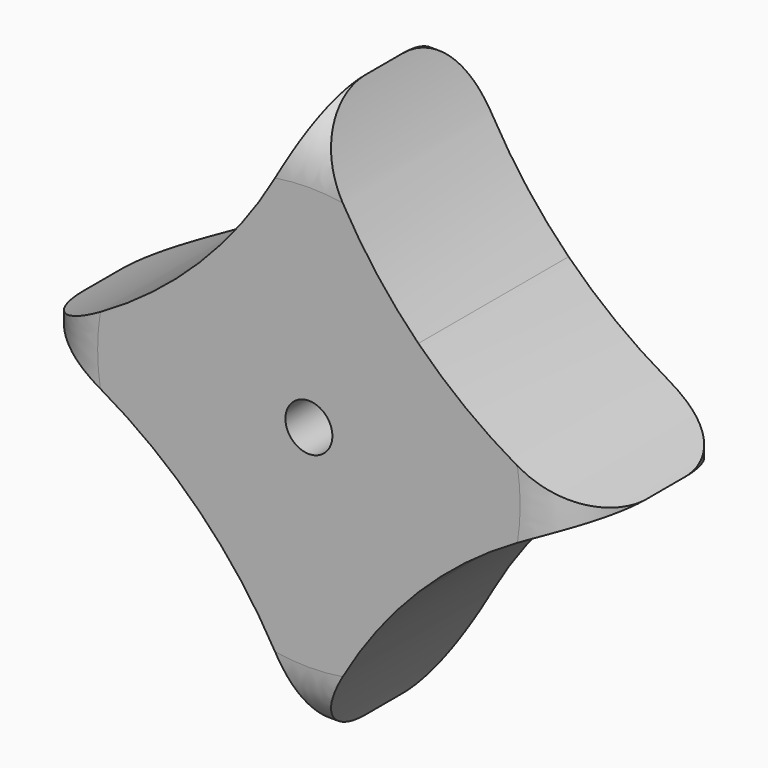
from build123d import *

# Parameters (mm, degrees)
F0_R     = 76.2
F1_DEPTH = 50.8
F3_R     = 19.05
F4_DEPTH = 50.801
F5_R     = 6.35
F6_DEPTH = 50.8010001


with BuildPart() as f1:
    # F0 (on Front) → F1 (new body)
    with BuildSketch(Plane.XZ):
        Circle(F0_R)
    extrude(amount=F1_DEPTH)

    # F3
    f3_edges = [f1.edges().sort_by_distance(p)[0] for p in [
        (76.2, -25.4, 0),
        (-76.2, 0, 0),
        (-76.2, -50.8, 0),
    ]]
    fillet(f3_edges, radius=F3_R)

    # F2 (on face) → F4 (cut, through all)
    with BuildSketch(Plane.XZ.offset(50.8)):
        with BuildLine():
            ThreePointArc((-29.6171166047, 29.6171166047), (-12.2470246704, 51.2799506522), (0, 76.2))
            Line((0, 76.2), (-38.1, 38.1))
            Line((-38.1, 38.1), (-29.6171166047, 29.6171166047))
        make_face()
        with BuildLine():
            Line((-29.6171166047, 29.6171166047), (-38.1, 38.1))
            Line((-38.1, 38.1), (-76.2, 0))
            ThreePointArc((-76.2, 0), (-51.2799506522, 12.2470246704), (-29.6171166047, 29.6171166047))
        make_face()
        with BuildLine():
            Line((0, -76.2), (38.1, -38.1))
            Line((38.1, -38.1), (29.6171166047, -29.6171166047))
            ThreePointArc((29.6171166047, -29.6171166047), (12.2470246704, -51.2799506522), (0, -76.2))
        make_face()
        with BuildLine():
            Line((38.1, -38.1), (76.2, 0))
            ThreePointArc((76.2, 0), (51.2799506522, -12.2470246704), (29.6171166047, -29.6171166047))
            Line((29.6171166047, -29.6171166047), (38.1, -38.1))
        make_face()
        with BuildLine():
            ThreePointArc((29.6171166047, 29.6171166047), (51.2799506522, 12.2470246704), (76.2, 0))
            Line((76.2, 0), (38.1, 38.1))
            Line((38.1, 38.1), (29.6171166047, 29.6171166047))
        make_face()
        with BuildLine():
            Line((38.1, 38.1), (0, 76.2))
            ThreePointArc((0, 76.2), (12.2470246704, 51.2799506522), (29.6171166047, 29.6171166047))
            Line((29.6171166047, 29.6171166047), (38.1, 38.1))
        make_face()
        with BuildLine():
            ThreePointArc((-29.6171166047, -29.6171166047), (-51.2799506522, -12.2470246704), (-76.2, 0))
            Line((-76.2, 0), (-38.1, -38.1))
            Line((-38.1, -38.1), (-29.6171166047, -29.6171166047))
        make_face()
        with BuildLine():
            Line((-38.1, -38.1), (0, -76.2))
            ThreePointArc((0, -76.2), (-12.2470246704, -51.2799506522), (-29.6171166047, -29.6171166047))
            Line((-29.6171166047, -29.6171166047), (-38.1, -38.1))
        make_face()
        with BuildLine():
            Line((53.8815367264, 53.8815367264), (76.2, 76.2))
            Line((76.2, 76.2), (0, 76.2))
            ThreePointArc((0, 76.2), (29.1604775462, 70.3996203774), (53.8815367264, 53.8815367264))
        make_face()
        with BuildLine():
            ThreePointArc((-53.8815367264, 53.8815367264), (-29.1604775462, 70.3996203774), (0, 76.2))
            Line((0, 76.2), (-76.2, 76.2))
            Line((-76.2, 76.2), (-53.8815367264, 53.8815367264))
        make_face()
        with BuildLine():
            Line((0, -76.2), (76.2, -76.2))
            Line((76.2, -76.2), (53.8815367264, -53.8815367264))
            ThreePointArc((53.8815367264, -53.8815367264), (29.1604775462, -70.3996203774), (0, -76.2))
        make_face()
        with BuildLine():
            Line((-76.2, -76.2), (0, -76.2))
            ThreePointArc((0, -76.2), (-29.1604775462, -70.3996203774), (-53.8815367264, -53.8815367264))
            Line((-53.8815367264, -53.8815367264), (-76.2, -76.2))
        make_face()
        with BuildLine():
            Line((76.2, 0), (76.2, 76.2))
            Line((76.2, 76.2), (53.8815367264, 53.8815367264))
            ThreePointArc((53.8815367264, 53.8815367264), (70.3996203774, 29.1604775462), (76.2, 0))
        make_face()
        with BuildLine():
            Line((76.2, -76.2), (76.2, 0))
            ThreePointArc((76.2, 0), (70.3996203774, -29.1604775462), (53.8815367264, -53.8815367264))
            Line((53.8815367264, -53.8815367264), (76.2, -76.2))
        make_face()
        with BuildLine():
            Line((-53.8815367264, 53.8815367264), (-76.2, 76.2))
            Line((-76.2, 76.2), (-76.2, 0))
            ThreePointArc((-76.2, 0), (-70.3996203774, 29.1604775462), (-53.8815367264, 53.8815367264))
        make_face()
        with BuildLine():
            ThreePointArc((-53.8815367264, -53.8815367264), (-70.3996203774, -29.1604775462), (-76.2, 0))
            Line((-76.2, 0), (-76.2, -76.2))
            Line((-76.2, -76.2), (-53.8815367264, -53.8815367264))
        make_face()
        with BuildLine():
            Line((-38.1, 38.1), (0, 76.2))
            ThreePointArc((0, 76.2), (-29.1604775462, 70.3996203774), (-53.8815367264, 53.8815367264))
            Line((-53.8815367264, 53.8815367264), (-38.1, 38.1))
        make_face()
        with BuildLine():
            Line((-76.2, 0), (-38.1, 38.1))
            Line((-38.1, 38.1), (-53.8815367264, 53.8815367264))
            ThreePointArc((-53.8815367264, 53.8815367264), (-70.3996203774, 29.1604775462), (-76.2, 0))
        make_face()
        with BuildLine():
            Line((53.8815367264, -53.8815367264), (38.1, -38.1))
            Line((38.1, -38.1), (0, -76.2))
            ThreePointArc((0, -76.2), (29.1604775462, -70.3996203774), (53.8815367264, -53.8815367264))
        make_face()
        with BuildLine():
            ThreePointArc((53.8815367264, -53.8815367264), (70.3996203774, -29.1604775462), (76.2, 0))
            Line((76.2, 0), (38.1, -38.1))
            Line((38.1, -38.1), (53.8815367264, -53.8815367264))
        make_face()
        with BuildLine():
            Line((38.1, 38.1), (76.2, 0))
            ThreePointArc((76.2, 0), (70.3996203774, 29.1604775462), (53.8815367264, 53.8815367264))
            Line((53.8815367264, 53.8815367264), (38.1, 38.1))
        make_face()
        with BuildLine():
            ThreePointArc((53.8815367264, 53.8815367264), (29.1604775462, 70.3996203774), (0, 76.2))
            Line((0, 76.2), (38.1, 38.1))
            Line((38.1, 38.1), (53.8815367264, 53.8815367264))
        make_face()
        with BuildLine():
            Line((-38.1, -38.1), (-76.2, 0))
            ThreePointArc((-76.2, 0), (-70.3996203774, -29.1604775462), (-53.8815367264, -53.8815367264))
            Line((-53.8815367264, -53.8815367264), (-38.1, -38.1))
        make_face()
        with BuildLine():
            ThreePointArc((-53.8815367264, -53.8815367264), (-29.1604775462, -70.3996203774), (0, -76.2))
            Line((0, -76.2), (-38.1, -38.1))
            Line((-38.1, -38.1), (-53.8815367264, -53.8815367264))
        make_face()
    extrude(amount=-F4_DEPTH, mode=Mode.SUBTRACT)

    # F5 (on face) → F6 (cut, through all)
    with BuildSketch(Plane.XZ.offset(50.8)):
        Circle(F5_R)
    extrude(amount=-F6_DEPTH, mode=Mode.SUBTRACT)


solid = f1.part
